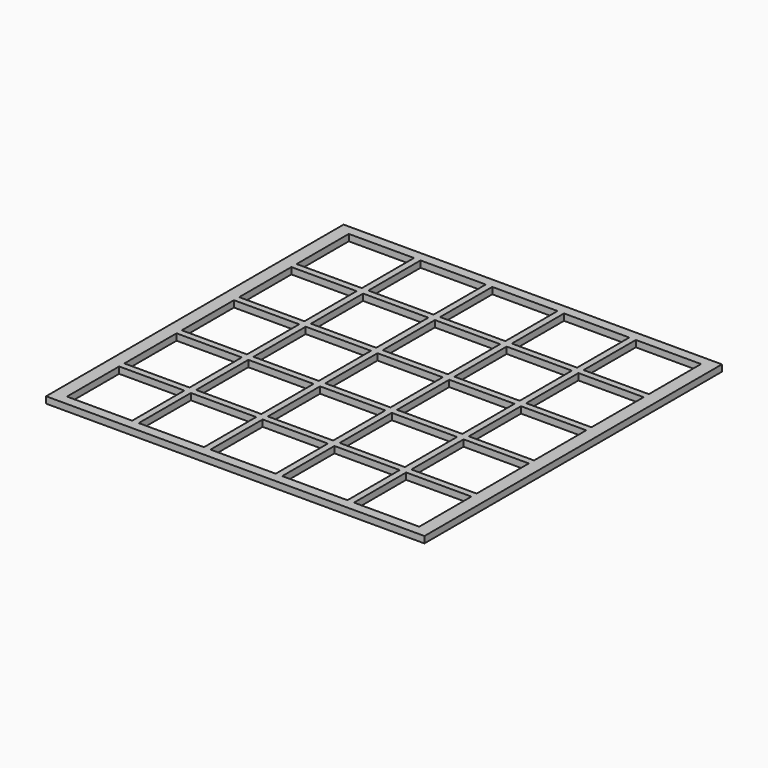
from build123d import *

# Parameters (mm, degrees)
F0_W     = 368.3
F0_H     = 361.95
F0_W_2   = 63.5
F0_H_2   = 63.5
F1_DEPTH = 6.35


with BuildPart() as f1:
    # F0 (on Top) → F1 (new body)
    with BuildSketch(Plane.XY):
        with Locations((9.59555, 5.294811)):
            Rectangle(F0_W, F0_H)
        with Locations((-130.10445, -134.405189)):
            Rectangle(F0_W_2, F0_H_2, mode=Mode.SUBTRACT)
        with Locations((-60.25445, -134.405189)):
            Rectangle(F0_W_2, F0_H_2, mode=Mode.SUBTRACT)
        with Locations((-130.10445, -64.555189)):
            Rectangle(F0_W_2, F0_H_2, mode=Mode.SUBTRACT)
        with Locations((-130.10445, 5.294811)):
            Rectangle(F0_W_2, F0_H_2, mode=Mode.SUBTRACT)
        with Locations((-60.25445, -64.555189)):
            Rectangle(F0_W_2, F0_H_2, mode=Mode.SUBTRACT)
        with Locations((-60.25445, 5.294811)):
            Rectangle(F0_W_2, F0_H_2, mode=Mode.SUBTRACT)
        with Locations((9.59555, -134.405189)):
            Rectangle(F0_W_2, F0_H_2, mode=Mode.SUBTRACT)
        with Locations((79.44555, -134.405189)):
            Rectangle(F0_W_2, F0_H_2, mode=Mode.SUBTRACT)
        with Locations((149.29555, -134.405189)):
            Rectangle(F0_W_2, F0_H_2, mode=Mode.SUBTRACT)
        with Locations((9.59555, -64.555189)):
            Rectangle(F0_W_2, F0_H_2, mode=Mode.SUBTRACT)
        with Locations((79.44555, -64.555189)):
            Rectangle(F0_W_2, F0_H_2, mode=Mode.SUBTRACT)
        with Locations((9.59555, 5.294811)):
            Rectangle(F0_W_2, F0_H_2, mode=Mode.SUBTRACT)
        with Locations((79.44555, 5.294811)):
            Rectangle(F0_W_2, F0_H_2, mode=Mode.SUBTRACT)
        with Locations((149.29555, -64.555189)):
            Rectangle(F0_W_2, F0_H_2, mode=Mode.SUBTRACT)
        with Locations((149.29555, 5.294811)):
            Rectangle(F0_W_2, F0_H_2, mode=Mode.SUBTRACT)
        with Locations((-130.10445, 75.144811)):
            Rectangle(F0_W_2, F0_H_2, mode=Mode.SUBTRACT)
        with Locations((-60.25445, 75.144811)):
            Rectangle(F0_W_2, F0_H_2, mode=Mode.SUBTRACT)
        with Locations((-130.10445, 144.994811)):
            Rectangle(F0_W_2, F0_H_2, mode=Mode.SUBTRACT)
        with Locations((-60.25445, 144.994811)):
            Rectangle(F0_W_2, F0_H_2, mode=Mode.SUBTRACT)
        with Locations((9.59555, 75.144811)):
            Rectangle(F0_W_2, F0_H_2, mode=Mode.SUBTRACT)
        with Locations((79.44555, 75.144811)):
            Rectangle(F0_W_2, F0_H_2, mode=Mode.SUBTRACT)
        with Locations((149.29555, 75.144811)):
            Rectangle(F0_W_2, F0_H_2, mode=Mode.SUBTRACT)
        with Locations((9.59555, 144.994811)):
            Rectangle(F0_W_2, F0_H_2, mode=Mode.SUBTRACT)
        with Locations((79.44555, 144.994811)):
            Rectangle(F0_W_2, F0_H_2, mode=Mode.SUBTRACT)
        with Locations((149.29555, 144.994811)):
            Rectangle(F0_W_2, F0_H_2, mode=Mode.SUBTRACT)
    extrude(amount=F1_DEPTH)


solid = f1.part
